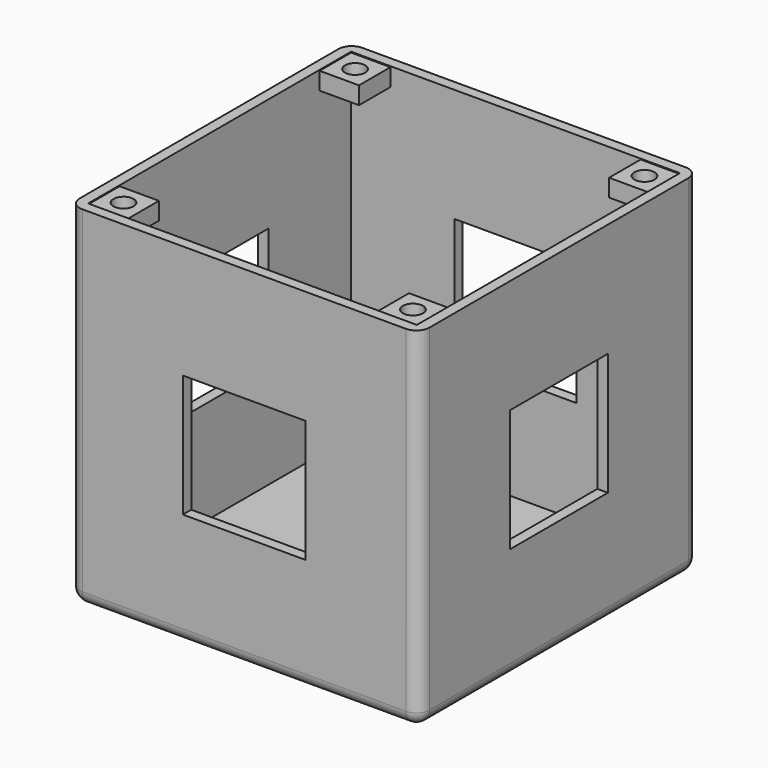
from build123d import *

# Parameters (mm, degrees)
PAD_DEPTH       = 40
FILLET_R        = 1.5
SKETCH001_W     = 37.6
SKETCH001_H     = 37.6
POCKET_DEPTH    = 38.8
SKETCH002_W     = 14
SKETCH002_H     = 14
POCKET001_DEPTH = 40.001
SKETCH003_W     = 14
SKETCH003_H     = 14
POCKET002_DEPTH = 40.001
SKETCH004_W     = 14
SKETCH004_H     = 14
POCKET003_DEPTH = 5
SKETCH007_W     = 4.5
SKETCH007_H     = 4.5
PAD001_DEPTH    = 2
SKETCH008_R     = 1.15
POCKET004_DEPTH = 2


with BuildPart() as part:
    # Sketch → Pad (new body)
    with BuildSketch(Plane.XY):
        with BuildLine():
            Line((0, 1.5), (0, 38.5))
            ThreePointArc((0, 38.5), (-0.43934, 39.56066), (-1.5, 40))
            Line((-1.5, 40), (-38.5, 40))
            ThreePointArc((-38.5, 40), (-39.56066, 39.56066), (-40, 38.5))
            Line((-40, 38.5), (-40, 1.5))
            ThreePointArc((-40, 1.5), (-39.56066, 0.43934), (-38.5, 0))
            Line((-38.5, 0), (-1.5, 0))
            ThreePointArc((-1.5, 0), (-0.43934, 0.43934), (0, 1.5))
        make_face()
    extrude(amount=PAD_DEPTH)

    # Fillet
    fillet_edges = [part.edges().sort_by_distance(p)[0] for p in [
        (-20, 0, 0),
    ]]
    fillet(fillet_edges, radius=FILLET_R)

    # Sketch001 (on Face4 of Fillet) → Pocket (cut)
    with BuildSketch(Plane.XY.offset(40)):
        with Locations((-20, 20)):
            Rectangle(SKETCH001_W, SKETCH001_H)
    extrude(amount=-POCKET_DEPTH, mode=Mode.SUBTRACT)

    # Sketch002 (on Face1 of Pocket) → Pocket001 (cut, through all)
    with BuildSketch(Plane.YZ):
        with Locations((20, 20)):
            Rectangle(SKETCH002_W, SKETCH002_H)
    extrude(amount=-POCKET001_DEPTH, mode=Mode.SUBTRACT)

    # Sketch003 (on Face14 of Pocket001) → Pocket002 (cut, through all)
    with BuildSketch(Plane(origin=(0, 40, 0), x_dir=(-1, 0, 0), z_dir=(0, 1, 0))):
        with Locations((20, 20)):
            Rectangle(SKETCH003_W, SKETCH003_H)
    extrude(amount=-POCKET002_DEPTH, mode=Mode.SUBTRACT)

    # Sketch004 (on Face39 of Pocket002) → Pocket003 (cut)
    with BuildSketch(Plane.XY.offset(1.2)):
        with Locations((-20, 20)):
            Rectangle(SKETCH004_W, SKETCH004_H)
    extrude(amount=-POCKET003_DEPTH, mode=Mode.SUBTRACT)

    # Sketch007 (on Face43 of Pocket003) → Pad001 (join)
    with BuildSketch(Plane.XY.offset(37.9)):
        with Locations((-36.55, 36.55)):
            Rectangle(SKETCH007_W, SKETCH007_H)
        with Locations((-3.45, 36.55)):
            Rectangle(SKETCH007_W, SKETCH007_H)
        with Locations((-3.45, 3.45)):
            Rectangle(SKETCH007_W, SKETCH007_H)
        with Locations((-36.55, 3.45)):
            Rectangle(SKETCH007_W, SKETCH007_H)
    extrude(amount=PAD001_DEPTH)

    # Sketch008 (on Face49 of Pad001) → Pocket004 (cut)
    with BuildSketch(Plane.XY.offset(39.9)):
        with Locations((-3.45, 3.45)):
            Circle(SKETCH008_R)
        with Locations((-36.55, 3.45)):
            Circle(SKETCH008_R)
        with Locations((-36.55, 36.55)):
            Circle(SKETCH008_R)
        with Locations((-3.45, 36.55)):
            Circle(SKETCH008_R)
    extrude(amount=-POCKET004_DEPTH, mode=Mode.SUBTRACT)


solid = part.part
